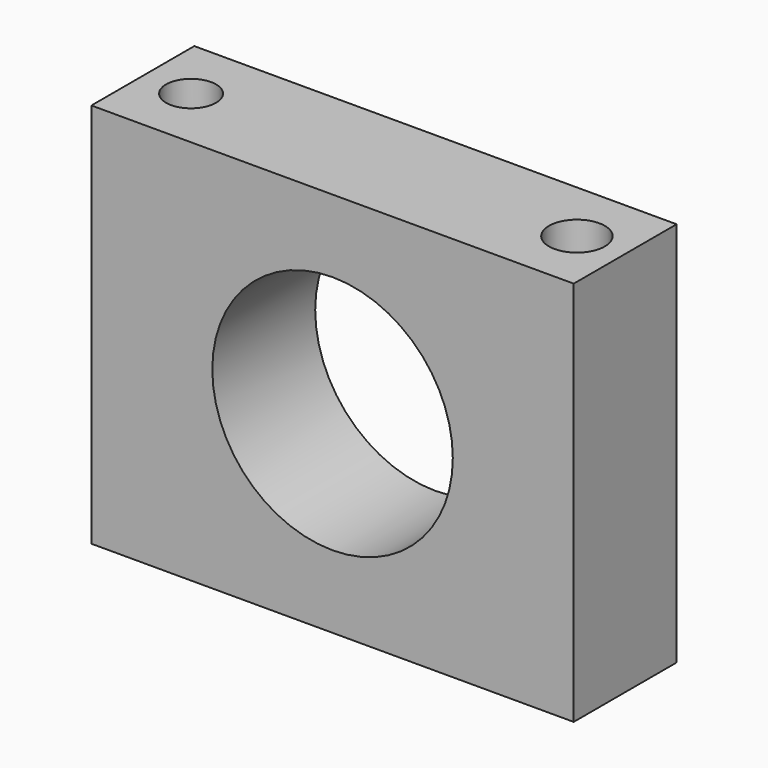
from build123d import *

# Parameters (mm, degrees)
F0_W     = 95.25
F0_H     = 76.2
F0_R     = 23.749
F1_DEPTH = 25.4
F2_R     = 4.932851
F2_R_2   = 5.51511
F3_DEPTH = 113.8043


with BuildPart() as f1:
    # F0 (on Front) → F1 (new body)
    with BuildSketch(Plane.XZ):
        with Locations((1.553977, 23.698104)):
            Rectangle(F0_W, F0_H)
        with Locations((1.553977, 23.698104)):
            Circle(F0_R, mode=Mode.SUBTRACT)
    extrude(amount=F1_DEPTH)

    # F2 (on face) → F3 (cut)
    with BuildSketch(Plane.XY.offset(61.798104)):
        with Locations((-36.546023, -12.7)):
            Circle(F2_R)
        with Locations((39.653977, -12.7)):
            Circle(F2_R_2)
    extrude(amount=-F3_DEPTH, mode=Mode.SUBTRACT)


solid = f1.part
